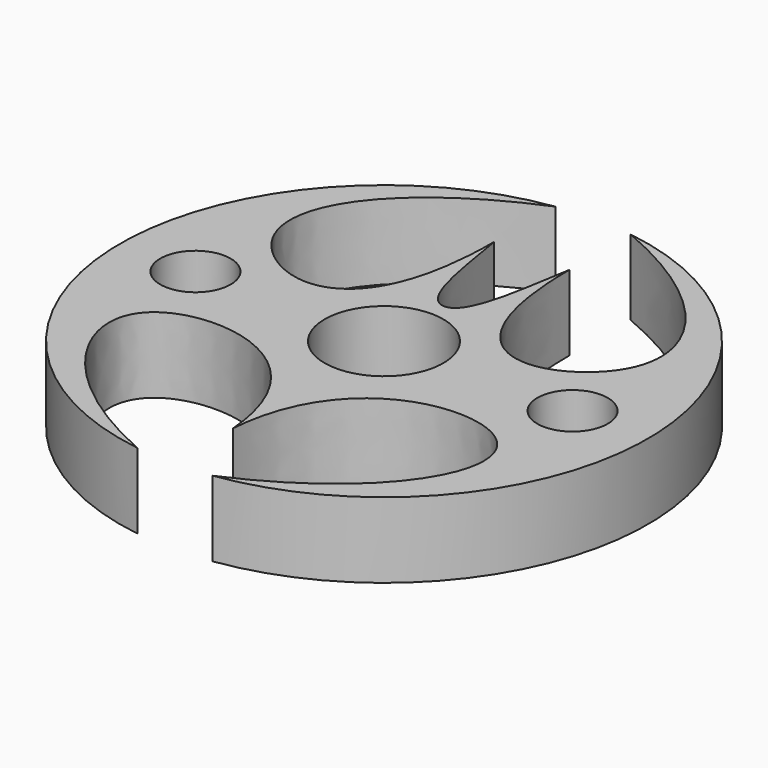
from build123d import *

# Parameters (mm, degrees)
F0_R     = 2.9614248249
F1_DEPTH = 6.35
F4_D     = 10


with BuildPart() as f1:
    # F0 (on Top) → F1 (new body)
    with BuildSketch(Plane.XY):
        with BuildLine():
            add(Edge.make_bspline(
                [(-3.175, 21.9970452561), (-13.4701055795, 17.6778641435), (-21.5584756618, 5.0746489519), (-3.175, 0), (-3.175, 15.5542598667)],
                knots=[0, 0, 0, 0, 0.5348418709, 1, 1, 1, 1], degree=3))
            ThreePointArc((-3.175, 21.9970452561), (-22.225, 0), (-3.175, -21.9970452561))
            add(Edge.make_bspline(
                [(-3.175, -21.9970452561), (-13.8975393501, -17.343846892), (-22.0709782387, -2.0584159269), (-0.8734419243, -4.604915157), (0, -15.875)],
                knots=[0, 0, 0, 0, 0.5133101899, 1, 1, 1, 1], degree=3))
            Line((0, -15.875), (0, 6.35))
            add(Edge.make_bspline(
                [(-3.175, 15.5542598667), (-2.5128191337, 11.9973989204), (-2.0055109635, 6.35), (0, 6.35)],
                knots=[0, 0, 0, 0, 9.7364790707, 9.7364790707, 9.7364790707, 9.7364790707], degree=3))
        make_face()
        with Locations((-15.875, 0)):
            Circle(F0_R, mode=Mode.SUBTRACT)
    extrude(amount=F1_DEPTH)

    # F2: F1 across face


with BuildPart() as f1_1:
    add(f1.part)
    add(f1.part.mirror(Plane(origin=(0, -4.7625, 3.175), x_dir=(0, 1, 0), z_dir=(1, 0, 0))))

    # F4 (through all)
    with Locations(Plane.XY.offset(6.35)):
        with Locations((0, 0)):
            Hole(F4_D / 2)


solid = f1_1.part
